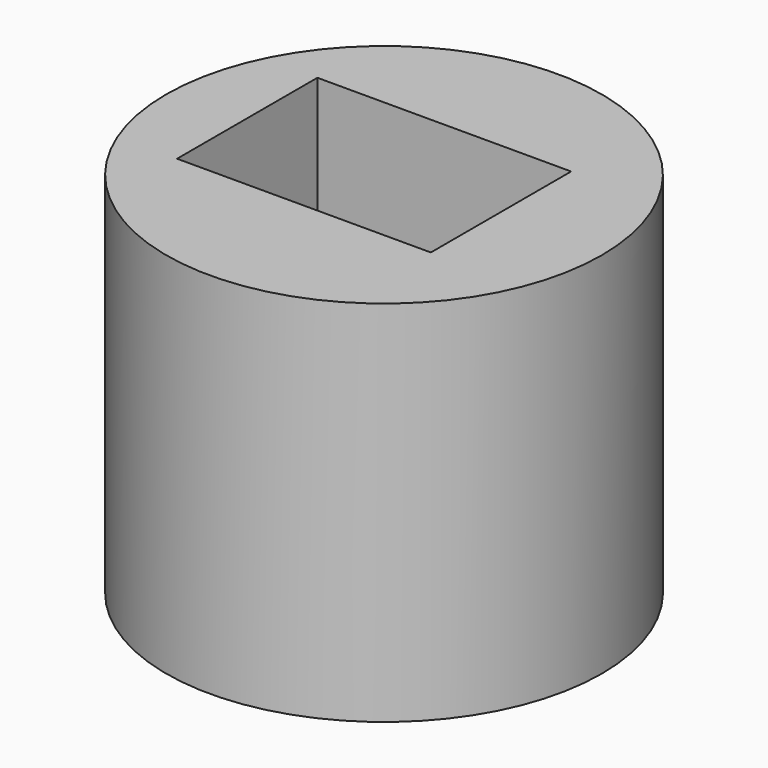
from build123d import *

# Parameters (mm, degrees)
F0_R     = 29.284381
F1_DEPTH = 49.53
F2_W     = 34.118725
F2_H     = 23.580571
F3_DEPTH = 35.814


with BuildPart() as f1:
    # F0 (on Top) → F1 (new body)
    with BuildSketch(Plane.XY):
        with Locations((-31.142609, 21.037826)):
            Circle(F0_R)
    extrude(amount=-F1_DEPTH)

    # F2 (on face) → F3 (cut)
    with BuildSketch(Plane.XY):
        with Locations((-33.328686, 22.106302)):
            Rectangle(F2_W, F2_H)
    extrude(amount=-F3_DEPTH, mode=Mode.SUBTRACT)


solid = f1.part
